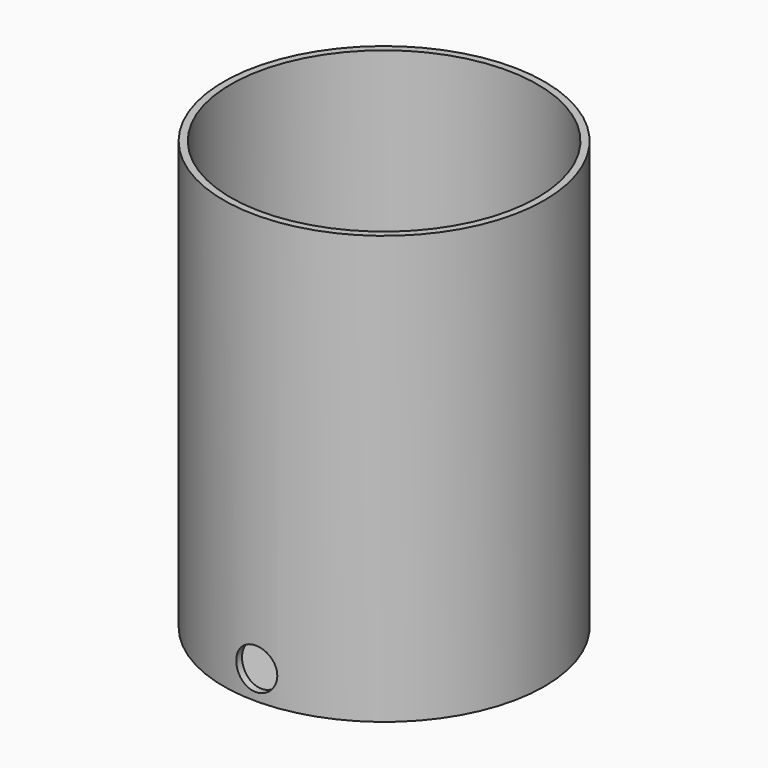
from build123d import *

# Parameters (mm, degrees)
F0_R     = 285.75
F1_DEPTH = 762
F2_T     = -12.7
F3_R     = 36.5125
F4_DEPTH = 327.66
F5_R     = 36.5125
F6_DEPTH = 345.44


with BuildPart() as f1:
    # F0 (on Top) → F1 (new body)
    with BuildSketch(Plane.XY):
        Circle(F0_R)
    extrude(amount=F1_DEPTH)

    # F2
    f2_openings = [f1.faces().sort_by_distance(p)[0] for p in [
        (0, 0, 762),
    ]]
    offset(amount=F2_T, openings=f2_openings)

    # F3 (on Front) → F4 (cut)
    with BuildSketch(Plane.XZ):
        with Locations((0, 50.8)):
            Circle(F3_R)
    extrude(amount=F4_DEPTH, mode=Mode.SUBTRACT)

    # F5 (on Front) → F6 (cut)
    with BuildSketch(Plane.XZ):
        with Locations((0, 50.8)):
            Circle(F5_R)
    extrude(amount=-F6_DEPTH, mode=Mode.SUBTRACT)


solid = f1.part
